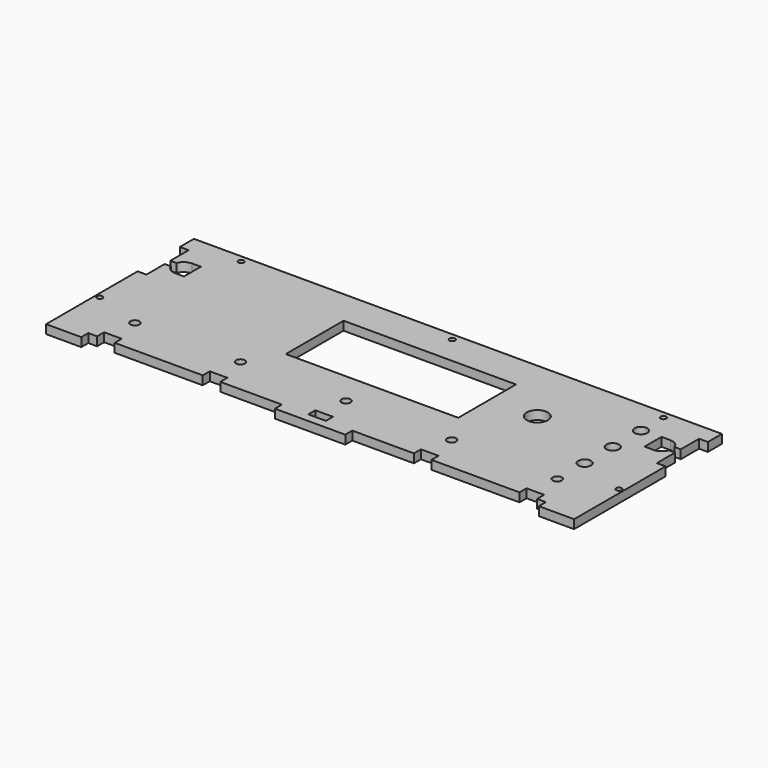
from build123d import *

# Parameters (mm, degrees)
F0_R     = 2.55
F0_R_2   = 1.6
F0_W     = 10
F0_H     = 5
F0_R_3   = 3.625
F0_W_2   = 98
F0_H_2   = 41
F0_R_4   = 6
F1_DEPTH = 5


with BuildPart() as f1:
    # F0 (on Top) → F1 (new body)
    with BuildSketch(Plane.XY):
        with BuildLine():
            Line((300, 0), (0, 0))
            Line((0, 0), (0, -10))
            Line((0, -10), (5, -10))
            Line((5, -10), (5, -23))
            Line((5, -23), (8.5, -23))
            ThreePointArc((8.5, -23), (10.692753, -20.101021), (14.156854, -19))
            Line((14.156854, -19), (19.156854, -19))
            Line((19.156854, -19), (19.156854, -31))
            Line((19.156854, -31), (14.156854, -31))
            ThreePointArc((14.156854, -31), (10.692753, -29.898979), (8.5, -27))
            Line((8.5, -27), (5, -27))
            Line((5, -27), (5, -40))
            Line((5, -40), (0, -40))
            Line((0, -40), (0, -100))
            Line((0, -100), (0, -105))
            Line((0, -105), (20, -105))
            Line((20, -105), (20, -100))
            Line((20, -100), (25, -100))
            Line((25, -100), (25, -95))
            Line((25, -95), (35, -95))
            Line((35, -95), (35, -100))
            Line((35, -100), (85, -100))
            Line((85, -100), (85, -95))
            Line((85, -95), (95, -95))
            Line((95, -95), (95, -100))
            Line((95, -100), (130, -100))
            Line((130, -100), (130, -105))
            Line((130, -105), (170, -105))
            Line((170, -105), (170, -100))
            Line((170, -100), (205, -100))
            Line((205, -100), (205, -95))
            Line((205, -95), (215, -95))
            Line((215, -95), (215, -100))
            Line((215, -100), (265, -100))
            Line((265, -100), (265, -95))
            Line((265, -95), (275, -95))
            Line((275, -95), (275, -100))
            Line((275, -100), (280, -100))
            Line((280, -100), (280, -105))
            Line((280, -105), (300, -105))
            Line((300, -105), (300, -100))
            Line((300, -100), (300, -40))
            Line((300, -40), (295, -40))
            Line((295, -40), (295, -27))
            Line((295, -27), (291.5, -27))
            ThreePointArc((291.5, -27), (289.307247, -29.898979), (285.843146, -31))
            Line((285.843146, -31), (280.843146, -31))
            Line((280.843146, -31), (280.843146, -19))
            Line((280.843146, -19), (285.843146, -19))
            ThreePointArc((285.843146, -19), (289.307247, -20.101021), (291.5, -23))
            Line((291.5, -23), (295, -23))
            Line((295, -23), (295, -10))
            Line((295, -10), (300, -10))
            Line((300, -10), (300, 0))
        make_face()
        with Locations((30, -79.45)):
            Circle(F0_R, mode=Mode.SUBTRACT)
        with Locations((90, -79.45)):
            Circle(F0_R, mode=Mode.SUBTRACT)
        with Locations((2.5, -70)):
            Circle(F0_R_2, mode=Mode.SUBTRACT)
        with Locations((150, -97.5)):
            Rectangle(F0_W, F0_H, mode=Mode.SUBTRACT)
        with Locations((150, -79.45)):
            Circle(F0_R, mode=Mode.SUBTRACT)
        with Locations((210, -79.45)):
            Circle(F0_R, mode=Mode.SUBTRACT)
        with Locations((270, -79.45)):
            Circle(F0_R, mode=Mode.SUBTRACT)
        with Locations((297.5, -70)):
            Circle(F0_R_2, mode=Mode.SUBTRACT)
        with Locations((270, -60)):
            Circle(F0_R_3, mode=Mode.SUBTRACT)
        with Locations((30, -4)):
            Circle(F0_R_2, mode=Mode.SUBTRACT)
        with Locations((150, -40.5)):
            Rectangle(F0_W_2, F0_H_2, mode=Mode.SUBTRACT)
        with Locations((270, -40)):
            Circle(F0_R_3, mode=Mode.SUBTRACT)
        with Locations((225.5, -38)):
            Circle(F0_R_4, mode=Mode.SUBTRACT)
        with Locations((150, -4)):
            Circle(F0_R_2, mode=Mode.SUBTRACT)
        with Locations((270, -20)):
            Circle(F0_R_3, mode=Mode.SUBTRACT)
        with Locations((270, -4)):
            Circle(F0_R_2, mode=Mode.SUBTRACT)
    extrude(amount=F1_DEPTH)


solid = f1.part
